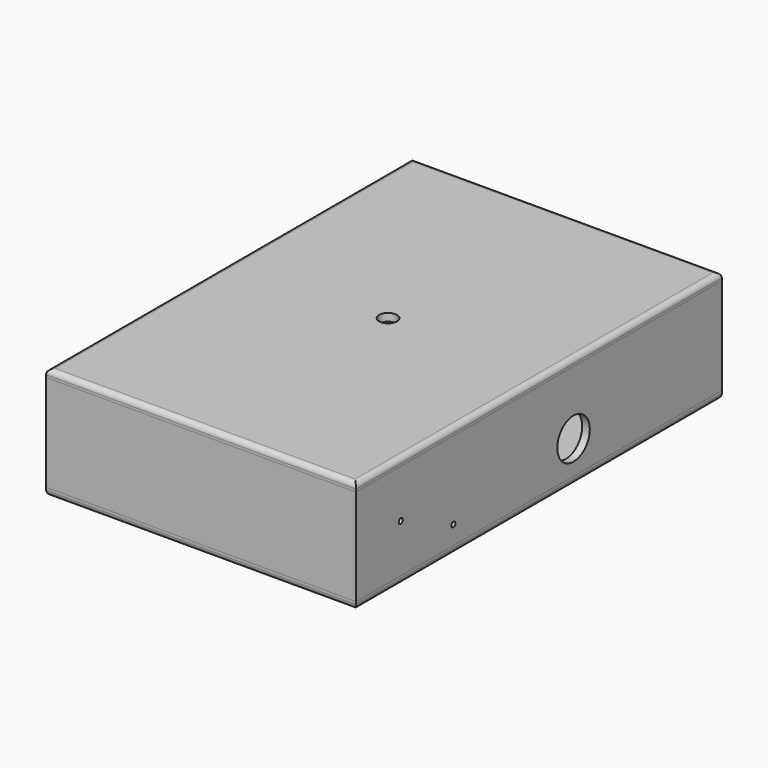
from build123d import *

# Parameters (mm, degrees)
F0_W      = 61
F0_H      = 90
F0_W_2    = 58
F0_H_2    = 19
F0_H_3    = 66.5
F1_DEPTH  = 19
F2_R      = 0.5
F3_DEPTH  = 61.001
F4_R      = 0.5
F5_DEPTH  = 60
F6_W      = 61
F6_H      = 90
F7_DEPTH  = 1.5
F9_R      = 1
F11_R     = 1
F12_R     = 1.75
F13_DEPTH = 22.001
F14_R     = 4
F15_DEPTH = 1.5
F16_W     = 1.5
F16_H     = 10
F16_W_2   = 10
F16_H_2   = 1.5
F17_DEPTH = 1.5


with BuildPart() as f1:
    # F0 (on Top) → F1 (new body)
    with BuildSketch(Plane.XY):
        with Locations((0, 34)):
            Rectangle(F0_W, F0_H)
        Rectangle(F0_W_2, F0_H_2, mode=Mode.SUBTRACT)
        with Locations((0, 44.25)):
            Rectangle(F0_W_2, F0_H_3, mode=Mode.SUBTRACT)
    extrude(amount=F1_DEPTH)

    # F2 (on face) → F3 (cut, through all)
    with BuildSketch(Plane.YZ.offset(30.5)):
        with Locations((0, 9.5)):
            Circle(F2_R)
    extrude(amount=-F3_DEPTH, mode=Mode.SUBTRACT)

    # F4 (on face) → F5 (cut, symmetric)
    with BuildSketch(Plane(origin=(29, 0, 0), x_dir=(0, -1, 0), z_dir=(-1, 0, 0))):
        with Locations((-12.9287308082, 3.6488831975)):
            Circle(F4_R)
    extrude(amount=F5_DEPTH, both=True, mode=Mode.SUBTRACT)

    # F14 (on face) → F15 (cut, through all)
    with BuildSketch(Plane.YZ.offset(30.5)):
        with Locations((42.5, 6.5)):
            Circle(F14_R)
    extrude(amount=-F15_DEPTH, mode=Mode.SUBTRACT)


with BuildPart() as f7:
    # F6 (on face) → F7 (new body)
    with BuildSketch(Plane.XY.offset(19)):
        with Locations((0, 34)):
            Rectangle(F6_W, F6_H)
    extrude(amount=F7_DEPTH)


with BuildPart() as f8_1:
    # F8: copy of F7
    add(f7.part.moved(Location((0, 0, -19))))

    # F9
    f9_edges = [f8_1.edges().sort_by_distance(p)[0] for p in [
        (0, 79, 0),
        (30.5, 34, 0),
        (-30.5, 34, 0),
        (0, -11, 0),
    ]]
    fillet(f9_edges, radius=F9_R)


with BuildPart() as f8_1_1:
    # F10: moved
    add(f8_1.part.moved(Location((0, 0, -1.5))))


with BuildPart() as f7_1:
    add(f7.part)

    # F11
    f11_edges = [f7_1.edges().sort_by_distance(p)[0] for p in [
        (0, 79, 20.5),
        (-30.5, 34, 20.5),
        (30.5, 34, 20.5),
        (0, -11, 20.5),
    ]]
    fillet(f11_edges, radius=F11_R)

    # F12 (on face) → F13 (cut, through all)
    with BuildSketch(Plane.XY.offset(20.5)):
        with Locations((0, 35)):
            Circle(F12_R)
    extrude(amount=-F13_DEPTH, mode=Mode.SUBTRACT)

    # F16 (on face) → F17 (join)
    with BuildSketch(Plane(origin=(0, 0, 19), x_dir=(1, 0, 0), z_dir=(0, 0, -1))):
        Polygon((-18.9, 9.4), (-28.9, 9.4), (-28.9, 7.9), (-27.4, 7.9), (-18.9, 7.9), align=None)
        with Locations((-28.15, 2.9)):
            Rectangle(F16_W, F16_H)
        with Locations((-28.15, -34.6938510239)):
            Rectangle(F16_W, F16_H)
        Polygon((28.9, 7.9), (28.9, 9.4), (18.9, 9.4), (18.9, 7.9), (27.4, 7.9), align=None)
        with Locations((28.15, 2.9)):
            Rectangle(F16_W, F16_H)
        with Locations((28.15, -34.6938510239)):
            Rectangle(F16_W, F16_H)
        with Locations((28.15, -70.9)):
            Rectangle(F16_W, F16_H)
        Polygon((18.9, -77.4), (28.9, -77.4), (28.9, -75.9), (27.4, -75.9), (18.9, -75.9), align=None)
        with Locations((-22.4, -76.65)):
            Rectangle(F16_W_2, F16_H_2)
        Polygon((-28.9, -67.4), (-28.9, -77.4), (-27.4, -77.4), (-27.4, -75.9), (-27.4, -67.4), align=None)
        with Locations((-1.0835662298, 8.65)):
            Rectangle(F16_W_2, F16_H_2)
        with Locations((-0.3121256642, -76.65)):
            Rectangle(F16_W_2, F16_H_2)
    extrude(amount=F17_DEPTH)


solid = Compound([f1.part, f8_1_1.part, f7_1.part])
